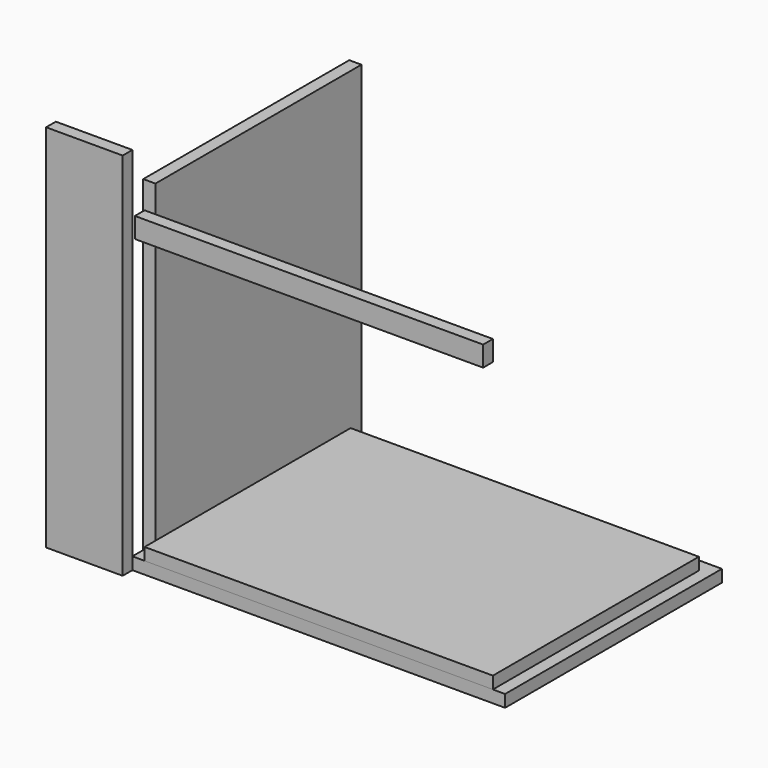
from build123d import *

# Parameters (mm, degrees)
F0_W     = 550
F0_H     = 400
F1_DEPTH = 18
F2_W     = 18
F2_H     = 380
F3_DEPTH = 482
F4_W     = 514
F4_H     = 30
F5_DEPTH = 18
F6_W     = 514
F6_H     = 380
F7_DEPTH = 18
F8_W     = 113
F8_H     = 546
F9_DEPTH = 18


with BuildPart() as f1:
    # F0 (on Top) → F1 (new body)
    with BuildSketch(Plane.XY):
        with Locations((275, 200)):
            Rectangle(F0_W, F0_H)
    extrude(amount=F1_DEPTH)


with BuildPart() as f3:
    # F2 (on face) → F3 (new body)
    with BuildSketch(Plane.XY.offset(18)):
        with Locations((9, 210)):
            Rectangle(F2_W, F2_H)
    extrude(amount=F3_DEPTH)


with BuildPart() as f5:
    # F4 (on Front) → F5 (new body)
    with BuildSketch(Plane.XZ):
        with Locations((275, 458.392456)):
            Rectangle(F4_W, F4_H)
    extrude(amount=F5_DEPTH)


with BuildPart() as f7:
    # F6 (on face) → F7 (new body)
    with BuildSketch(Plane.XY.offset(18)):
        with Locations((275, 190)):
            Rectangle(F6_W, F6_H)
    extrude(amount=F7_DEPTH)


with BuildPart() as f9:
    # F8 (on Front) → F9 (new body)
    with BuildSketch(Plane.XZ):
        with Locations((-56.5, 273)):
            Rectangle(F8_W, F8_H)
    extrude(amount=F9_DEPTH)


solid = Compound([f1.part, f3.part, f5.part, f7.part, f9.part])
